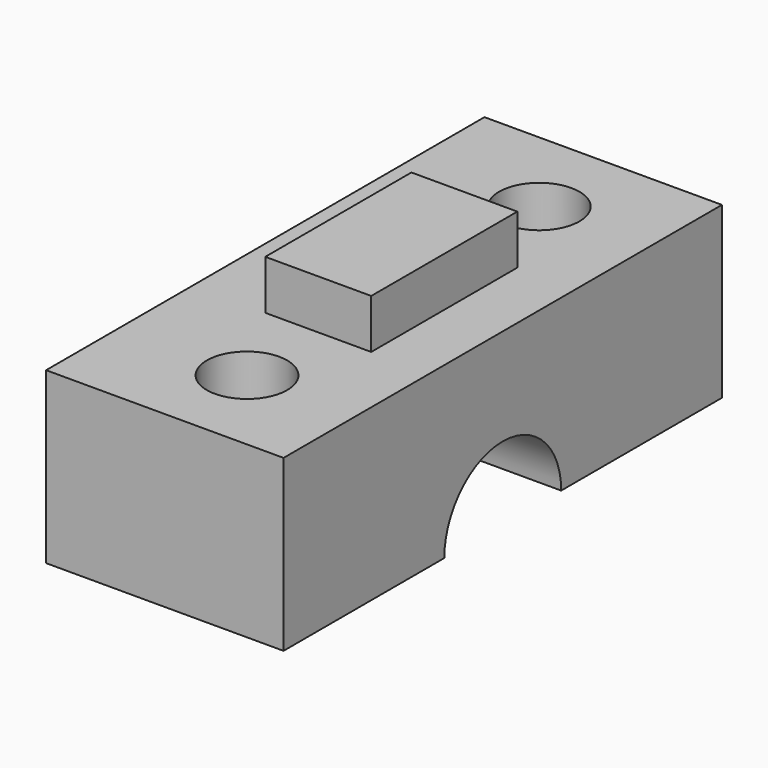
from build123d import *

# Parameters (mm, degrees)
BOX056_W                  = 10
BOX056_H                  = 4
BOX056_DEPTH              = 5.8
CYLINDER077_R             = 2.2
CYLINDER077_DEPTH         = 25
CYLINDER076_R             = 2.2
CYLINDER076_DEPTH         = 25
CYLINDER075_R             = 4
CYLINDER075_DEPTH         = 6
BOX055_W                  = 30
BOX055_H                  = 9.3
BOX055_DEPTH              = 13
FUSION045_ROLL_ANGLE      = 90
FUSION045_PLACEMENT_ANGLE = 90


with BuildPart() as quader035:
    # Box056 → Box056 (new body)
    with BuildSketch(Plane(origin=(-5, 8, 2), x_dir=(1, 0, 0), z_dir=(0, 0, 1))):
        with Locations((5, 2)):
            Rectangle(BOX056_W, BOX056_H)
    extrude(amount=BOX056_DEPTH)


with BuildPart() as zylinder066:
    # Cylinder077 → Cylinder077 (new body)
    with BuildSketch(Plane(origin=(-10, 12, 5), x_dir=(1, 0, 0), z_dir=(0, -1, 0))):
        Circle(CYLINDER077_R)
    extrude(amount=CYLINDER077_DEPTH)


with BuildPart() as zylinder065:
    # Cylinder076 → Cylinder076 (new body)
    with BuildSketch(Plane(origin=(10, 12, 5), x_dir=(1, 0, 0), z_dir=(0, -1, 0))):
        Circle(CYLINDER076_R)
    extrude(amount=CYLINDER076_DEPTH)


with BuildPart() as zylinder064:
    # Cylinder075 → Cylinder075 (new body)
    with BuildSketch(Plane.XY.offset(5.8)):
        Circle(CYLINDER075_R)
    extrude(amount=CYLINDER075_DEPTH)


with BuildPart() as y_drive_mount003:
    # Box055 → Box055 (new body)
    with BuildSketch(Plane(origin=(-15, 0, -2), x_dir=(1, 0, 0), z_dir=(0, 0, 1))):
        with Locations((15, 4.65)):
            Rectangle(BOX055_W, BOX055_H)
    extrude(amount=BOX055_DEPTH)

    # Cut084: cut Zylinder064
    add(zylinder064.part, mode=Mode.SUBTRACT)

    # Cut085: cut Zylinder065
    add(zylinder065.part, mode=Mode.SUBTRACT)

    # Cut086: cut Zylinder066
    add(zylinder066.part, mode=Mode.SUBTRACT)

    # Fusion045: union Quader035
    add(quader035.part)


with BuildPart() as y_drive_mount003_1:
    # Fusion045 roll: moved
    add(y_drive_mount003.part.rotate(Axis((0, 0, 0), (1, 0, 0)), FUSION045_ROLL_ANGLE))


with BuildPart() as y_drive_mount003_2:
    # Fusion045 placement: moved
    add(y_drive_mount003_1.part.moved(Location((-32.75, 652.85, 53.2))).rotate(Axis((-32.75, 652.85, 53.2), (0, 0, 1)), FUSION045_PLACEMENT_ANGLE))


solid = y_drive_mount003_2.part
